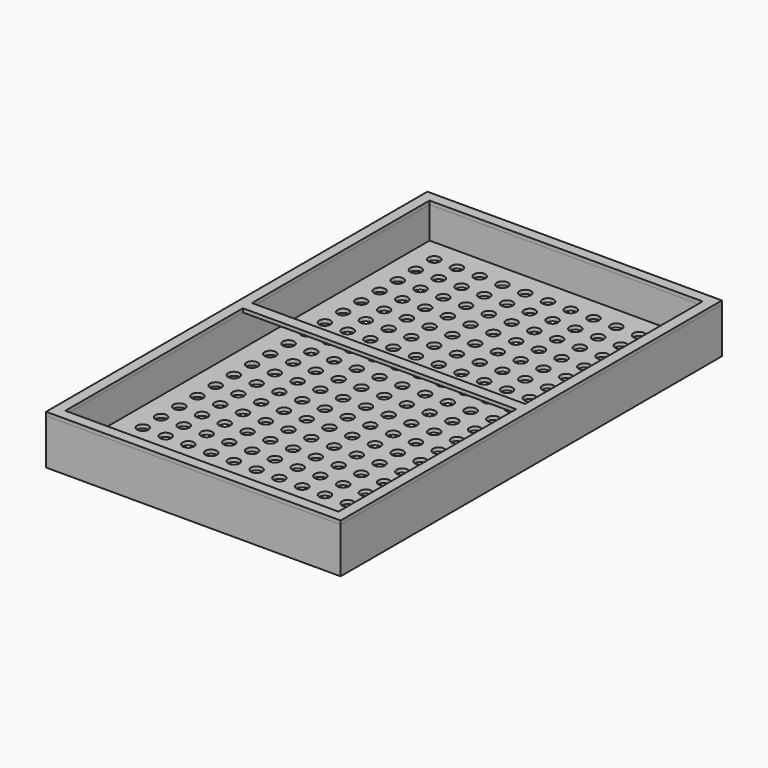
from build123d import *

# Parameters (mm, degrees)
F0_W      = 50
F0_H      = 47
F1_DEPTH  = 2094
F3_DEPTH  = 200.001
F5_DEPTH  = 200.001
F7_DEPTH  = 200
F8_R      = 25
F9_DEPTH  = 16
F10_W     = 1200
F10_H     = 47
F10_H_2   = 50
F11_DEPTH = 16


with BuildPart() as f1:
    # F0 (on Front) → F1 (new body)
    with BuildSketch(Plane.XZ):
        Polygon((0, 200), (0, 0), (47, 0), (47, 47), (47, 200), align=None)
        with Locations((72, 23.5)):
            Rectangle(F0_W, F0_H)
        Polygon((1247, 0), (1294, 0), (1294, 200), (1247, 200), (1247, 47), align=None)
        with Locations((1222, 23.5)):
            Rectangle(F0_W, F0_H)
    extrude(amount=F1_DEPTH)

    # F2 (on face) → F3 (cut, through all)
    with BuildSketch(Plane.XY.offset(200)):
        Polygon((213.83898, 0), (47, 0), (47, -47), (224.792784, -224.792784), align=None)
        Polygon((47, 0), (0, 0), (47, -47), align=None)
        Polygon((47, -2047), (0, -2094), (47, -2094), align=None)
        Polygon((152.649833, -1941.350167), (47, -2047), (47, -2094), (120.294198, -2094), align=None)
    extrude(amount=-F3_DEPTH, mode=Mode.SUBTRACT)

    # F4 (on face) → F5 (cut, through all)
    with BuildSketch(Plane.XY.offset(200)):
        Polygon((937.698017, -356.301983), (1294, 0), (937.698017, 0), align=None)
        Polygon((876.843986, -2094), (1294, -2094), (876.843986, -1676.843986), align=None)
    extrude(amount=-F5_DEPTH, mode=Mode.SUBTRACT)


with BuildPart() as f7:
    # F6 (on Top) → F7 (new body)
    with BuildSketch(Plane.XY):
        Polygon((1294, 0), (0, 0), (47, -47), (1247, -47), align=None)
        Polygon((1294, -2094), (1247, -2047), (47, -2047), (0, -2094), align=None)
    extrude(amount=F7_DEPTH)


with BuildPart() as f9:
    # F8 (on face) → F9 (new body)
    with BuildSketch(Plane.XY.offset(47)):
        Polygon((49.5, -2044.5), (1244.5, -2044.5), (1197, -1997), (1197, -97), (1244.5, -49.5), (49.5, -49.5), align=None)
        with Locations((149.5, -1949.5)):
            Circle(F8_R, mode=Mode.SUBTRACT)
        with Locations((149.5, -1849.5)):
            Circle(F8_R, mode=Mode.SUBTRACT)
        with Locations((249.5, -1949.5)):
            Circle(F8_R, mode=Mode.SUBTRACT)
        with Locations((249.5, -1849.5)):
            Circle(F8_R, mode=Mode.SUBTRACT)
        with Locations((149.5, -1749.5)):
            Circle(F8_R, mode=Mode.SUBTRACT)
        with Locations((149.5, -1649.5)):
            Circle(F8_R, mode=Mode.SUBTRACT)
        with Locations((149.5, -1549.5)):
            Circle(F8_R, mode=Mode.SUBTRACT)
        with Locations((249.5, -1749.5)):
            Circle(F8_R, mode=Mode.SUBTRACT)
        with Locations((249.5, -1649.5)):
            Circle(F8_R, mode=Mode.SUBTRACT)
        with Locations((249.5, -1549.5)):
            Circle(F8_R, mode=Mode.SUBTRACT)
        with Locations((349.5, -1949.5)):
            Circle(F8_R, mode=Mode.SUBTRACT)
        with Locations((449.5, -1949.5)):
            Circle(F8_R, mode=Mode.SUBTRACT)
        with Locations((349.5, -1849.5)):
            Circle(F8_R, mode=Mode.SUBTRACT)
        with Locations((449.5, -1849.5)):
            Circle(F8_R, mode=Mode.SUBTRACT)
        with Locations((549.5, -1949.5)):
            Circle(F8_R, mode=Mode.SUBTRACT)
        with Locations((549.5, -1849.5)):
            Circle(F8_R, mode=Mode.SUBTRACT)
        with Locations((349.5, -1749.5)):
            Circle(F8_R, mode=Mode.SUBTRACT)
        with Locations((449.5, -1749.5)):
            Circle(F8_R, mode=Mode.SUBTRACT)
        with Locations((349.5, -1649.5)):
            Circle(F8_R, mode=Mode.SUBTRACT)
        with Locations((349.5, -1549.5)):
            Circle(F8_R, mode=Mode.SUBTRACT)
        with Locations((449.5, -1649.5)):
            Circle(F8_R, mode=Mode.SUBTRACT)
        with Locations((449.5, -1549.5)):
            Circle(F8_R, mode=Mode.SUBTRACT)
        with Locations((549.5, -1749.5)):
            Circle(F8_R, mode=Mode.SUBTRACT)
        with Locations((549.5, -1649.5)):
            Circle(F8_R, mode=Mode.SUBTRACT)
        with Locations((549.5, -1549.5)):
            Circle(F8_R, mode=Mode.SUBTRACT)
        with Locations((149.5, -1449.5)):
            Circle(F8_R, mode=Mode.SUBTRACT)
        with Locations((149.5, -1349.5)):
            Circle(F8_R, mode=Mode.SUBTRACT)
        with Locations((249.5, -1449.5)):
            Circle(F8_R, mode=Mode.SUBTRACT)
        with Locations((249.5, -1349.5)):
            Circle(F8_R, mode=Mode.SUBTRACT)
        with Locations((149.5, -1249.5)):
            Circle(F8_R, mode=Mode.SUBTRACT)
        with Locations((149.5, -1149.5)):
            Circle(F8_R, mode=Mode.SUBTRACT)
        with Locations((149.5, -1049.5)):
            Circle(F8_R, mode=Mode.SUBTRACT)
        with Locations((249.5, -1249.5)):
            Circle(F8_R, mode=Mode.SUBTRACT)
        with Locations((249.5, -1149.5)):
            Circle(F8_R, mode=Mode.SUBTRACT)
        with Locations((249.5, -1049.5)):
            Circle(F8_R, mode=Mode.SUBTRACT)
        with Locations((349.5, -1449.5)):
            Circle(F8_R, mode=Mode.SUBTRACT)
        with Locations((449.5, -1449.5)):
            Circle(F8_R, mode=Mode.SUBTRACT)
        with Locations((349.5, -1349.5)):
            Circle(F8_R, mode=Mode.SUBTRACT)
        with Locations((449.5, -1349.5)):
            Circle(F8_R, mode=Mode.SUBTRACT)
        with Locations((549.5, -1449.5)):
            Circle(F8_R, mode=Mode.SUBTRACT)
        with Locations((549.5, -1349.5)):
            Circle(F8_R, mode=Mode.SUBTRACT)
        with Locations((349.5, -1249.5)):
            Circle(F8_R, mode=Mode.SUBTRACT)
        with Locations((449.5, -1249.5)):
            Circle(F8_R, mode=Mode.SUBTRACT)
        with Locations((349.5, -1149.5)):
            Circle(F8_R, mode=Mode.SUBTRACT)
        with Locations((349.5, -1049.5)):
            Circle(F8_R, mode=Mode.SUBTRACT)
        with Locations((449.5, -1149.5)):
            Circle(F8_R, mode=Mode.SUBTRACT)
        with Locations((449.5, -1049.5)):
            Circle(F8_R, mode=Mode.SUBTRACT)
        with Locations((549.5, -1249.5)):
            Circle(F8_R, mode=Mode.SUBTRACT)
        with Locations((549.5, -1149.5)):
            Circle(F8_R, mode=Mode.SUBTRACT)
        with Locations((549.5, -1049.5)):
            Circle(F8_R, mode=Mode.SUBTRACT)
        with Locations((649.5, -1949.5)):
            Circle(F8_R, mode=Mode.SUBTRACT)
        with Locations((749.5, -1949.5)):
            Circle(F8_R, mode=Mode.SUBTRACT)
        with Locations((649.5, -1849.5)):
            Circle(F8_R, mode=Mode.SUBTRACT)
        with Locations((749.5, -1849.5)):
            Circle(F8_R, mode=Mode.SUBTRACT)
        with Locations((849.5, -1949.5)):
            Circle(F8_R, mode=Mode.SUBTRACT)
        with Locations((849.5, -1849.5)):
            Circle(F8_R, mode=Mode.SUBTRACT)
        with Locations((649.5, -1749.5)):
            Circle(F8_R, mode=Mode.SUBTRACT)
        with Locations((749.5, -1749.5)):
            Circle(F8_R, mode=Mode.SUBTRACT)
        with Locations((649.5, -1649.5)):
            Circle(F8_R, mode=Mode.SUBTRACT)
        with Locations((649.5, -1549.5)):
            Circle(F8_R, mode=Mode.SUBTRACT)
        with Locations((749.5, -1649.5)):
            Circle(F8_R, mode=Mode.SUBTRACT)
        with Locations((749.5, -1549.5)):
            Circle(F8_R, mode=Mode.SUBTRACT)
        with Locations((849.5, -1749.5)):
            Circle(F8_R, mode=Mode.SUBTRACT)
        with Locations((849.5, -1649.5)):
            Circle(F8_R, mode=Mode.SUBTRACT)
        with Locations((849.5, -1549.5)):
            Circle(F8_R, mode=Mode.SUBTRACT)
        with Locations((949.5, -1949.5)):
            Circle(F8_R, mode=Mode.SUBTRACT)
        with Locations((1049.5, -1949.5)):
            Circle(F8_R, mode=Mode.SUBTRACT)
        with Locations((949.5, -1849.5)):
            Circle(F8_R, mode=Mode.SUBTRACT)
        with Locations((1049.5, -1849.5)):
            Circle(F8_R, mode=Mode.SUBTRACT)
        with Locations((1149.5, -1949.5)):
            Circle(F8_R, mode=Mode.SUBTRACT)
        with Locations((1149.5, -1849.5)):
            Circle(F8_R, mode=Mode.SUBTRACT)
        with Locations((949.5, -1749.5)):
            Circle(F8_R, mode=Mode.SUBTRACT)
        with Locations((1049.5, -1749.5)):
            Circle(F8_R, mode=Mode.SUBTRACT)
        with Locations((949.5, -1649.5)):
            Circle(F8_R, mode=Mode.SUBTRACT)
        with Locations((949.5, -1549.5)):
            Circle(F8_R, mode=Mode.SUBTRACT)
        with Locations((1049.5, -1649.5)):
            Circle(F8_R, mode=Mode.SUBTRACT)
        with Locations((1049.5, -1549.5)):
            Circle(F8_R, mode=Mode.SUBTRACT)
        with Locations((1149.5, -1749.5)):
            Circle(F8_R, mode=Mode.SUBTRACT)
        with Locations((1149.5, -1649.5)):
            Circle(F8_R, mode=Mode.SUBTRACT)
        with Locations((1149.5, -1549.5)):
            Circle(F8_R, mode=Mode.SUBTRACT)
        with Locations((649.5, -1449.5)):
            Circle(F8_R, mode=Mode.SUBTRACT)
        with Locations((749.5, -1449.5)):
            Circle(F8_R, mode=Mode.SUBTRACT)
        with Locations((649.5, -1349.5)):
            Circle(F8_R, mode=Mode.SUBTRACT)
        with Locations((749.5, -1349.5)):
            Circle(F8_R, mode=Mode.SUBTRACT)
        with Locations((849.5, -1449.5)):
            Circle(F8_R, mode=Mode.SUBTRACT)
        with Locations((849.5, -1349.5)):
            Circle(F8_R, mode=Mode.SUBTRACT)
        with Locations((649.5, -1249.5)):
            Circle(F8_R, mode=Mode.SUBTRACT)
        with Locations((749.5, -1249.5)):
            Circle(F8_R, mode=Mode.SUBTRACT)
        with Locations((649.5, -1149.5)):
            Circle(F8_R, mode=Mode.SUBTRACT)
        with Locations((649.5, -1049.5)):
            Circle(F8_R, mode=Mode.SUBTRACT)
        with Locations((749.5, -1149.5)):
            Circle(F8_R, mode=Mode.SUBTRACT)
        with Locations((749.5, -1049.5)):
            Circle(F8_R, mode=Mode.SUBTRACT)
        with Locations((849.5, -1249.5)):
            Circle(F8_R, mode=Mode.SUBTRACT)
        with Locations((849.5, -1149.5)):
            Circle(F8_R, mode=Mode.SUBTRACT)
        with Locations((849.5, -1049.5)):
            Circle(F8_R, mode=Mode.SUBTRACT)
        with Locations((949.5, -1449.5)):
            Circle(F8_R, mode=Mode.SUBTRACT)
        with Locations((1049.5, -1449.5)):
            Circle(F8_R, mode=Mode.SUBTRACT)
        with Locations((949.5, -1349.5)):
            Circle(F8_R, mode=Mode.SUBTRACT)
        with Locations((1049.5, -1349.5)):
            Circle(F8_R, mode=Mode.SUBTRACT)
        with Locations((1149.5, -1449.5)):
            Circle(F8_R, mode=Mode.SUBTRACT)
        with Locations((1149.5, -1349.5)):
            Circle(F8_R, mode=Mode.SUBTRACT)
        with Locations((949.5, -1249.5)):
            Circle(F8_R, mode=Mode.SUBTRACT)
        with Locations((1049.5, -1249.5)):
            Circle(F8_R, mode=Mode.SUBTRACT)
        with Locations((949.5, -1149.5)):
            Circle(F8_R, mode=Mode.SUBTRACT)
        with Locations((949.5, -1049.5)):
            Circle(F8_R, mode=Mode.SUBTRACT)
        with Locations((1049.5, -1149.5)):
            Circle(F8_R, mode=Mode.SUBTRACT)
        with Locations((1049.5, -1049.5)):
            Circle(F8_R, mode=Mode.SUBTRACT)
        with Locations((1149.5, -1249.5)):
            Circle(F8_R, mode=Mode.SUBTRACT)
        with Locations((1149.5, -1149.5)):
            Circle(F8_R, mode=Mode.SUBTRACT)
        with Locations((1149.5, -1049.5)):
            Circle(F8_R, mode=Mode.SUBTRACT)
        with Locations((149.5, -949.5)):
            Circle(F8_R, mode=Mode.SUBTRACT)
        with Locations((149.5, -849.5)):
            Circle(F8_R, mode=Mode.SUBTRACT)
        with Locations((249.5, -949.5)):
            Circle(F8_R, mode=Mode.SUBTRACT)
        with Locations((249.5, -849.5)):
            Circle(F8_R, mode=Mode.SUBTRACT)
        with Locations((149.5, -749.5)):
            Circle(F8_R, mode=Mode.SUBTRACT)
        with Locations((149.5, -649.5)):
            Circle(F8_R, mode=Mode.SUBTRACT)
        with Locations((149.5, -549.5)):
            Circle(F8_R, mode=Mode.SUBTRACT)
        with Locations((249.5, -749.5)):
            Circle(F8_R, mode=Mode.SUBTRACT)
        with Locations((249.5, -649.5)):
            Circle(F8_R, mode=Mode.SUBTRACT)
        with Locations((249.5, -549.5)):
            Circle(F8_R, mode=Mode.SUBTRACT)
        with Locations((349.5, -949.5)):
            Circle(F8_R, mode=Mode.SUBTRACT)
        with Locations((449.5, -949.5)):
            Circle(F8_R, mode=Mode.SUBTRACT)
        with Locations((349.5, -849.5)):
            Circle(F8_R, mode=Mode.SUBTRACT)
        with Locations((449.5, -849.5)):
            Circle(F8_R, mode=Mode.SUBTRACT)
        with Locations((549.5, -949.5)):
            Circle(F8_R, mode=Mode.SUBTRACT)
        with Locations((549.5, -849.5)):
            Circle(F8_R, mode=Mode.SUBTRACT)
        with Locations((349.5, -749.5)):
            Circle(F8_R, mode=Mode.SUBTRACT)
        with Locations((449.5, -749.5)):
            Circle(F8_R, mode=Mode.SUBTRACT)
        with Locations((349.5, -649.5)):
            Circle(F8_R, mode=Mode.SUBTRACT)
        with Locations((349.5, -549.5)):
            Circle(F8_R, mode=Mode.SUBTRACT)
        with Locations((449.5, -649.5)):
            Circle(F8_R, mode=Mode.SUBTRACT)
        with Locations((449.5, -549.5)):
            Circle(F8_R, mode=Mode.SUBTRACT)
        with Locations((549.5, -749.5)):
            Circle(F8_R, mode=Mode.SUBTRACT)
        with Locations((549.5, -649.5)):
            Circle(F8_R, mode=Mode.SUBTRACT)
        with Locations((549.5, -549.5)):
            Circle(F8_R, mode=Mode.SUBTRACT)
        with Locations((149.5, -449.5)):
            Circle(F8_R, mode=Mode.SUBTRACT)
        with Locations((149.5, -349.5)):
            Circle(F8_R, mode=Mode.SUBTRACT)
        with Locations((249.5, -449.5)):
            Circle(F8_R, mode=Mode.SUBTRACT)
        with Locations((249.5, -349.5)):
            Circle(F8_R, mode=Mode.SUBTRACT)
        with Locations((149.5, -249.5)):
            Circle(F8_R, mode=Mode.SUBTRACT)
        with Locations((149.5, -149.5)):
            Circle(F8_R, mode=Mode.SUBTRACT)
        with Locations((249.5, -249.5)):
            Circle(F8_R, mode=Mode.SUBTRACT)
        with Locations((249.5, -149.5)):
            Circle(F8_R, mode=Mode.SUBTRACT)
        with Locations((349.5, -449.5)):
            Circle(F8_R, mode=Mode.SUBTRACT)
        with Locations((449.5, -449.5)):
            Circle(F8_R, mode=Mode.SUBTRACT)
        with Locations((349.5, -349.5)):
            Circle(F8_R, mode=Mode.SUBTRACT)
        with Locations((449.5, -349.5)):
            Circle(F8_R, mode=Mode.SUBTRACT)
        with Locations((549.5, -449.5)):
            Circle(F8_R, mode=Mode.SUBTRACT)
        with Locations((549.5, -349.5)):
            Circle(F8_R, mode=Mode.SUBTRACT)
        with Locations((349.5, -249.5)):
            Circle(F8_R, mode=Mode.SUBTRACT)
        with Locations((449.5, -249.5)):
            Circle(F8_R, mode=Mode.SUBTRACT)
        with Locations((349.5, -149.5)):
            Circle(F8_R, mode=Mode.SUBTRACT)
        with Locations((449.5, -149.5)):
            Circle(F8_R, mode=Mode.SUBTRACT)
        with Locations((549.5, -249.5)):
            Circle(F8_R, mode=Mode.SUBTRACT)
        with Locations((549.5, -149.5)):
            Circle(F8_R, mode=Mode.SUBTRACT)
        with Locations((649.5, -949.5)):
            Circle(F8_R, mode=Mode.SUBTRACT)
        with Locations((749.5, -949.5)):
            Circle(F8_R, mode=Mode.SUBTRACT)
        with Locations((649.5, -849.5)):
            Circle(F8_R, mode=Mode.SUBTRACT)
        with Locations((749.5, -849.5)):
            Circle(F8_R, mode=Mode.SUBTRACT)
        with Locations((849.5, -949.5)):
            Circle(F8_R, mode=Mode.SUBTRACT)
        with Locations((849.5, -849.5)):
            Circle(F8_R, mode=Mode.SUBTRACT)
        with Locations((649.5, -749.5)):
            Circle(F8_R, mode=Mode.SUBTRACT)
        with Locations((749.5, -749.5)):
            Circle(F8_R, mode=Mode.SUBTRACT)
        with Locations((649.5, -649.5)):
            Circle(F8_R, mode=Mode.SUBTRACT)
        with Locations((649.5, -549.5)):
            Circle(F8_R, mode=Mode.SUBTRACT)
        with Locations((749.5, -649.5)):
            Circle(F8_R, mode=Mode.SUBTRACT)
        with Locations((749.5, -549.5)):
            Circle(F8_R, mode=Mode.SUBTRACT)
        with Locations((849.5, -749.5)):
            Circle(F8_R, mode=Mode.SUBTRACT)
        with Locations((849.5, -649.5)):
            Circle(F8_R, mode=Mode.SUBTRACT)
        with Locations((849.5, -549.5)):
            Circle(F8_R, mode=Mode.SUBTRACT)
        with Locations((949.5, -949.5)):
            Circle(F8_R, mode=Mode.SUBTRACT)
        with Locations((1049.5, -949.5)):
            Circle(F8_R, mode=Mode.SUBTRACT)
        with Locations((949.5, -849.5)):
            Circle(F8_R, mode=Mode.SUBTRACT)
        with Locations((1049.5, -849.5)):
            Circle(F8_R, mode=Mode.SUBTRACT)
        with Locations((1149.5, -949.5)):
            Circle(F8_R, mode=Mode.SUBTRACT)
        with Locations((1149.5, -849.5)):
            Circle(F8_R, mode=Mode.SUBTRACT)
        with Locations((949.5, -749.5)):
            Circle(F8_R, mode=Mode.SUBTRACT)
        with Locations((1049.5, -749.5)):
            Circle(F8_R, mode=Mode.SUBTRACT)
        with Locations((949.5, -649.5)):
            Circle(F8_R, mode=Mode.SUBTRACT)
        with Locations((949.5, -549.5)):
            Circle(F8_R, mode=Mode.SUBTRACT)
        with Locations((1049.5, -649.5)):
            Circle(F8_R, mode=Mode.SUBTRACT)
        with Locations((1049.5, -549.5)):
            Circle(F8_R, mode=Mode.SUBTRACT)
        with Locations((1149.5, -749.5)):
            Circle(F8_R, mode=Mode.SUBTRACT)
        with Locations((1149.5, -649.5)):
            Circle(F8_R, mode=Mode.SUBTRACT)
        with Locations((1149.5, -549.5)):
            Circle(F8_R, mode=Mode.SUBTRACT)
        with Locations((649.5, -449.5)):
            Circle(F8_R, mode=Mode.SUBTRACT)
        with Locations((749.5, -449.5)):
            Circle(F8_R, mode=Mode.SUBTRACT)
        with Locations((649.5, -349.5)):
            Circle(F8_R, mode=Mode.SUBTRACT)
        with Locations((749.5, -349.5)):
            Circle(F8_R, mode=Mode.SUBTRACT)
        with Locations((849.5, -449.5)):
            Circle(F8_R, mode=Mode.SUBTRACT)
        with Locations((849.5, -349.5)):
            Circle(F8_R, mode=Mode.SUBTRACT)
        with Locations((649.5, -249.5)):
            Circle(F8_R, mode=Mode.SUBTRACT)
        with Locations((749.5, -249.5)):
            Circle(F8_R, mode=Mode.SUBTRACT)
        with Locations((649.5, -149.5)):
            Circle(F8_R, mode=Mode.SUBTRACT)
        with Locations((749.5, -149.5)):
            Circle(F8_R, mode=Mode.SUBTRACT)
        with Locations((849.5, -249.5)):
            Circle(F8_R, mode=Mode.SUBTRACT)
        with Locations((849.5, -149.5)):
            Circle(F8_R, mode=Mode.SUBTRACT)
        with Locations((949.5, -449.5)):
            Circle(F8_R, mode=Mode.SUBTRACT)
        with Locations((1049.5, -449.5)):
            Circle(F8_R, mode=Mode.SUBTRACT)
        with Locations((949.5, -349.5)):
            Circle(F8_R, mode=Mode.SUBTRACT)
        with Locations((1049.5, -349.5)):
            Circle(F8_R, mode=Mode.SUBTRACT)
        with Locations((1149.5, -449.5)):
            Circle(F8_R, mode=Mode.SUBTRACT)
        with Locations((1149.5, -349.5)):
            Circle(F8_R, mode=Mode.SUBTRACT)
        with Locations((949.5, -249.5)):
            Circle(F8_R, mode=Mode.SUBTRACT)
        with Locations((1049.5, -249.5)):
            Circle(F8_R, mode=Mode.SUBTRACT)
        with Locations((949.5, -149.5)):
            Circle(F8_R, mode=Mode.SUBTRACT)
        with Locations((1049.5, -149.5)):
            Circle(F8_R, mode=Mode.SUBTRACT)
        with Locations((1149.5, -249.5)):
            Circle(F8_R, mode=Mode.SUBTRACT)
        with Locations((1149.5, -149.5)):
            Circle(F8_R, mode=Mode.SUBTRACT)
        Polygon((1197, -1997), (1244.5, -2044.5), (1244.5, -49.5), (1197, -97), align=None)
    extrude(amount=F9_DEPTH)


with BuildPart() as f11:
    # F10 (on face) → F11 (new body)
    with BuildSketch(Plane.XY.offset(200)):
        Polygon((47, 0), (0, 0), (0, -2094), (47, -2094), (47, -2047), (47, -1072), (47, -1022), (47, -47), align=None)
        with Locations((647, -23.5)):
            Rectangle(F10_W, F10_H)
        with Locations((647, -2070.5)):
            Rectangle(F10_W, F10_H)
        Polygon((1294, 0), (1247, 0), (1247, -47), (1247, -1022), (1247, -1072), (1247, -2047), (1247, -2094), (1294, -2094), align=None)
        with Locations((647, -1047)):
            Rectangle(F10_W, F10_H_2)
    extrude(amount=F11_DEPTH)


solid = Compound([f1.part, f7.part, f9.part, f11.part])
